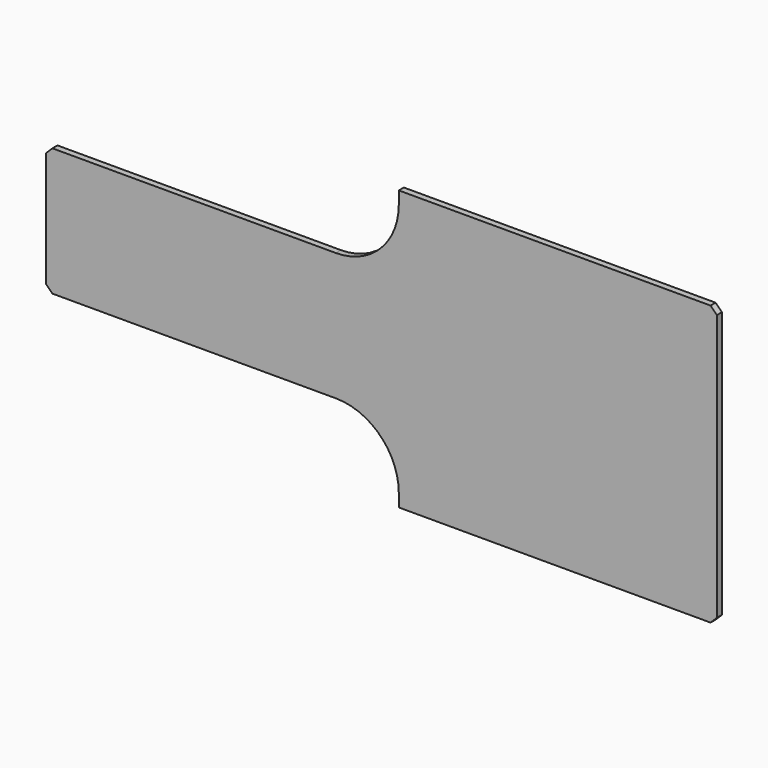
from build123d import *

# Parameters (mm, degrees)
F1_DEPTH = 12.7
F2_SIZE  = 12.7


with BuildPart() as f1:
    # F0 (on Front) → F1 (new body)
    with BuildSketch(Plane.XZ):
        with BuildLine():
            Line((399.451222, -412.90055), (399.451222, 149.86185))
            Line((399.451222, 149.86185), (-241.898778, 149.86185))
            Line((-241.898778, 149.86185), (-241.898778, 124.46185))
            ThreePointArc((-241.898778, 124.46185), (-279.096217, 34.659289), (-368.898778, -2.53815))
            Line((-368.898778, -2.53815), (-953.098778, -2.53815))
            Line((-953.098778, -2.53815), (-953.098778, -260.50055))
            Line((-953.098778, -260.50055), (-368.898778, -260.50055))
            ThreePointArc((-368.898778, -260.50055), (-279.096217, -297.697989), (-241.898778, -387.50055))
            Line((-241.898778, -387.50055), (-241.898778, -412.90055))
            Line((-241.898778, -412.90055), (399.451222, -412.90055))
        make_face()
    extrude(amount=F1_DEPTH)

    # F2
    f2_edges = [f1.edges().sort_by_distance(p)[0] for p in [
        (-953.098778, -6.35, -2.53815),
        (-953.098778, -6.35, -260.50055),
        (399.451222, -6.35, -412.90055),
        (399.451222, -6.35, 149.86185),
    ]]
    chamfer(f2_edges, length=F2_SIZE)


solid = f1.part
